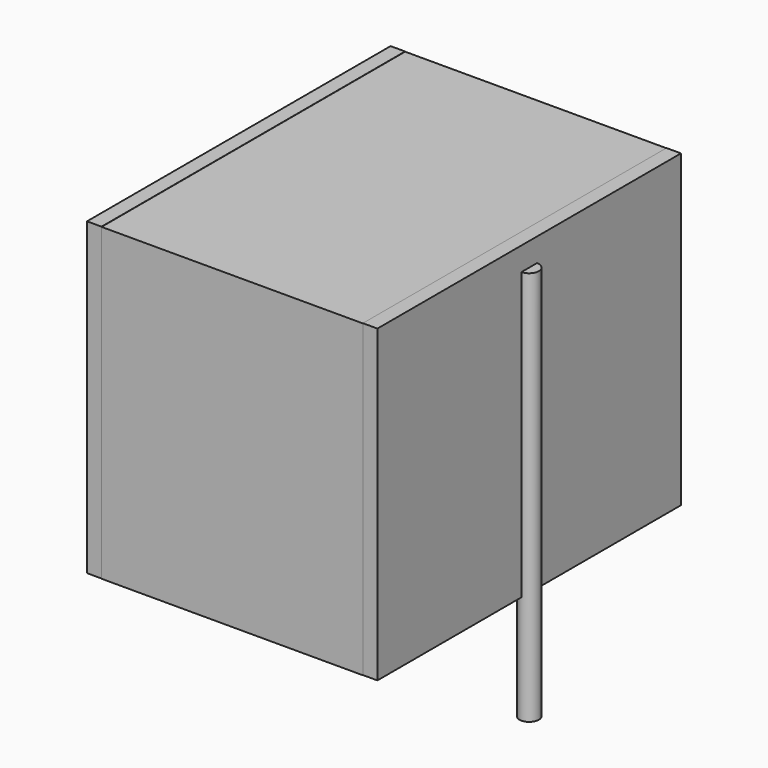
from build123d import *

# Parameters (mm, degrees)
SKETCH_W          = 6.75
SKETCH_H          = 9.8
PAD_DEPTH         = 8
SKETCH001_R       = 0.25
PAD001_DEPTH      = 7
PAD001_DEPTH_BACK = 3.2
SKETCH002_W       = 0.375
SKETCH002_H       = 9.8
PAD002_DEPTH      = 8


with BuildPart() as pad:
    # Sketch → Pad (new body)
    with BuildSketch(Plane.XY.offset(0.1)):
        with Locations((3.75, 0)):
            Rectangle(SKETCH_W, SKETCH_H)
    extrude(amount=PAD_DEPTH)


with BuildPart() as pad001:
    # Sketch001 → Pad001 (new body, two sides)
    with BuildSketch(Plane.XY.offset(0.5)) as pad001_sk:
        Circle(SKETCH001_R)
        with Locations((7.5, 0)):
            Circle(SKETCH001_R)
    extrude(amount=PAD001_DEPTH)
    extrude(pad001_sk.sketch, amount=-PAD001_DEPTH_BACK)


with BuildPart() as pad002:
    # Sketch002 → Pad002 (new body)
    with BuildSketch(Plane.XY.offset(0.105)):
        with Locations((0.1875, 0)):
            Rectangle(SKETCH002_W, SKETCH002_H)
        with Locations((7.3125, 0)):
            Rectangle(SKETCH002_W, SKETCH002_H)
    extrude(amount=PAD002_DEPTH)


solid = Compound([pad.part, pad001.part, pad002.part])
